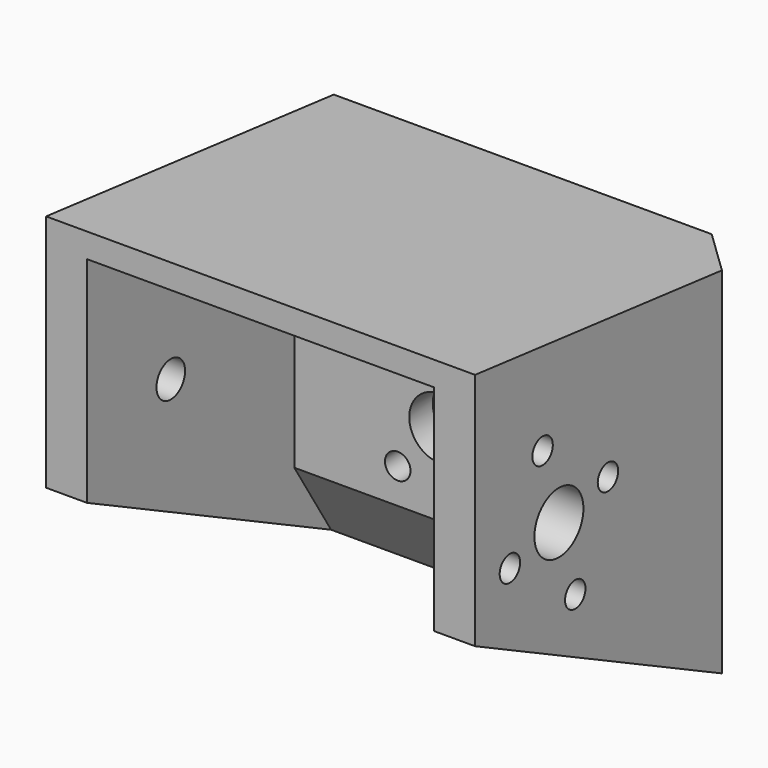
from build123d import *

# Parameters (mm, degrees)
CYLINDER067_R             = 1.75
CYLINDER067_DEPTH         = 22
CYLINDER067_PITCH_ANGLE   = 90
CYLINDER061_R             = 1.25
CYLINDER061_DEPTH         = 22
CYLINDER061_PITCH_ANGLE   = 90
CYLINDER062_R             = 1.25
CYLINDER062_DEPTH         = 22
CYLINDER062_PITCH_ANGLE   = 90
CYLINDER060_R             = 1.25
CYLINDER060_DEPTH         = 22
CYLINDER060_PITCH_ANGLE   = 90
CYLINDER059_R             = 1.25
CYLINDER059_DEPTH         = 22
CYLINDER059_PITCH_ANGLE   = 90
CYLINDER065_R             = 1.25
CYLINDER065_DEPTH         = 22
CYLINDER065_PITCH_ANGLE   = 90
CYLINDER066_R             = 1.25
CYLINDER066_DEPTH         = 22
CYLINDER066_PITCH_ANGLE   = 90
CYLINDER064_R             = 1.25
CYLINDER064_DEPTH         = 22
CYLINDER064_PITCH_ANGLE   = 90
CYLINDER063_R             = 1.25
CYLINDER063_DEPTH         = 22
CYLINDER063_PITCH_ANGLE   = 90
FUSION047_ROLL_ANGLE      = 34
FUSION047_PLACEMENT_ANGLE = -90
CYLINDER058_R             = 3
CYLINDER058_DEPTH         = 22
CYLINDER058_PITCH_ANGLE   = 90
CYLINDER057_R             = 3
CYLINDER057_DEPTH         = 13
CYLINDER057_ROLL_ANGLE    = 90
CYLINDER056_R             = 10
CYLINDER056_DEPTH         = 10
CYLINDER056_ROLL_ANGLE    = 90
PAD007_DEPTH              = 34
PAD005_DEPTH              = 42
CHAMFER104_SIZE           = 5
CHAMFER105_SIZE           = 5


with BuildPart() as cilindro011:
    # Cylinder067 → Cylinder067 (new body)
    with BuildSketch(Plane.XY):
        Circle(CYLINDER067_R)
    extrude(amount=CYLINDER067_DEPTH)


with BuildPart() as cilindro011_1:
    # Cylinder067 pitch: moved
    add(cilindro011.part.rotate(Axis((0, 0, 0), (0, 1, 0)), CYLINDER067_PITCH_ANGLE))


with BuildPart() as cilindro011_2:
    # Cylinder067 placement: moved
    add(cilindro011_1.part.moved(Location((-4.75, -32, 125.75))))


with BuildPart() as cilindro005:
    # Cylinder061 → Cylinder061 (new body)
    with BuildSketch(Plane.XY):
        Circle(CYLINDER061_R)
    extrude(amount=CYLINDER061_DEPTH)


with BuildPart() as cilindro005_1:
    # Cylinder061 pitch: moved
    add(cilindro005.part.rotate(Axis((0, 0, 0), (0, 1, 0)), CYLINDER061_PITCH_ANGLE))


with BuildPart() as cilindro005_2:
    # Cylinder061 placement: moved
    add(cilindro005_1.part.moved(Location((20.25, -38, 124.25))))


with BuildPart() as cilindro006:
    # Cylinder062 → Cylinder062 (new body)
    with BuildSketch(Plane.XY):
        Circle(CYLINDER062_R)
    extrude(amount=CYLINDER062_DEPTH)


with BuildPart() as cilindro006_1:
    # Cylinder062 pitch: moved
    add(cilindro006.part.rotate(Axis((0, 0, 0), (0, 1, 0)), CYLINDER062_PITCH_ANGLE))


with BuildPart() as cilindro006_2:
    # Cylinder062 placement: moved
    add(cilindro006_1.part.moved(Location((20.25, -26, 127.25))))


with BuildPart() as cilindro004:
    # Cylinder060 → Cylinder060 (new body)
    with BuildSketch(Plane.XY):
        Circle(CYLINDER060_R)
    extrude(amount=CYLINDER060_DEPTH)


with BuildPart() as cilindro004_1:
    # Cylinder060 pitch: moved
    add(cilindro004.part.rotate(Axis((0, 0, 0), (0, 1, 0)), CYLINDER060_PITCH_ANGLE))


with BuildPart() as cilindro004_2:
    # Cylinder060 placement: moved
    add(cilindro004_1.part.moved(Location((20.25, -30, 118.75))))


with BuildPart() as fusion046:
    # Cylinder059 → Cylinder059 (new body)
    with BuildSketch(Plane.XY):
        Circle(CYLINDER059_R)
    extrude(amount=CYLINDER059_DEPTH)


with BuildPart() as fusion046_1:
    # Cylinder059 pitch: moved
    add(fusion046.part.rotate(Axis((0, 0, 0), (0, 1, 0)), CYLINDER059_PITCH_ANGLE))


with BuildPart() as fusion046_2:
    # Cylinder059 placement: moved
    add(fusion046_1.part.moved(Location((20.25, -34, 132.75))))

    # Fusion046: union Cilindro005, Cilindro006, Cilindro004
    add(cilindro005_2.part)
    add(cilindro006_2.part)
    add(cilindro004_2.part)


with BuildPart() as cilindro009:
    # Cylinder065 → Cylinder065 (new body)
    with BuildSketch(Plane.XY):
        Circle(CYLINDER065_R)
    extrude(amount=CYLINDER065_DEPTH)


with BuildPart() as cilindro009_1:
    # Cylinder065 pitch: moved
    add(cilindro009.part.rotate(Axis((0, 0, 0), (0, 1, 0)), CYLINDER065_PITCH_ANGLE))


with BuildPart() as cilindro009_2:
    # Cylinder065 placement: moved
    add(cilindro009_1.part.moved(Location((20.25, -38, 124.25))))


with BuildPart() as cilindro010:
    # Cylinder066 → Cylinder066 (new body)
    with BuildSketch(Plane.XY):
        Circle(CYLINDER066_R)
    extrude(amount=CYLINDER066_DEPTH)


with BuildPart() as cilindro010_1:
    # Cylinder066 pitch: moved
    add(cilindro010.part.rotate(Axis((0, 0, 0), (0, 1, 0)), CYLINDER066_PITCH_ANGLE))


with BuildPart() as cilindro010_2:
    # Cylinder066 placement: moved
    add(cilindro010_1.part.moved(Location((20.25, -26, 127.25))))


with BuildPart() as cilindro008:
    # Cylinder064 → Cylinder064 (new body)
    with BuildSketch(Plane.XY):
        Circle(CYLINDER064_R)
    extrude(amount=CYLINDER064_DEPTH)


with BuildPart() as cilindro008_1:
    # Cylinder064 pitch: moved
    add(cilindro008.part.rotate(Axis((0, 0, 0), (0, 1, 0)), CYLINDER064_PITCH_ANGLE))


with BuildPart() as cilindro008_2:
    # Cylinder064 placement: moved
    add(cilindro008_1.part.moved(Location((20.25, -30, 118.75))))


with BuildPart() as fusion047:
    # Cylinder063 → Cylinder063 (new body)
    with BuildSketch(Plane.XY):
        Circle(CYLINDER063_R)
    extrude(amount=CYLINDER063_DEPTH)


with BuildPart() as fusion047_1:
    # Cylinder063 pitch: moved
    add(fusion047.part.rotate(Axis((0, 0, 0), (0, 1, 0)), CYLINDER063_PITCH_ANGLE))


with BuildPart() as fusion047_2:
    # Cylinder063 placement: moved
    add(fusion047_1.part.moved(Location((20.25, -34, 132.75))))

    # Fusion047: union Cilindro009, Cilindro010, Cilindro008
    add(cilindro009_2.part)
    add(cilindro010_2.part)
    add(cilindro008_2.part)


with BuildPart() as fusion047_3:
    # Fusion047 roll: moved
    add(fusion047_2.part.rotate(Axis((0, 0, 0), (1, 0, 0)), FUSION047_ROLL_ANGLE))


with BuildPart() as fusion047_4:
    # Fusion047 placement: moved
    add(fusion047_3.part.moved(Location((114.107998, 21, 33.646227))).rotate(Axis((114.107998, 21, 33.646227), (0, 0, 1)), FUSION047_PLACEMENT_ANGLE))


with BuildPart() as cilindro002:
    # Cylinder058 → Cylinder058 (new body)
    with BuildSketch(Plane.XY):
        Circle(CYLINDER058_R)
    extrude(amount=CYLINDER058_DEPTH)


with BuildPart() as cilindro002_1:
    # Cylinder058 pitch: moved
    add(cilindro002.part.rotate(Axis((0, 0, 0), (0, 1, 0)), CYLINDER058_PITCH_ANGLE))


with BuildPart() as cilindro002_2:
    # Cylinder058 placement: moved
    add(cilindro002_1.part.moved(Location((20.25, -32, 125.75))))


with BuildPart() as cilindro001:
    # Cylinder057 → Cylinder057 (new body)
    with BuildSketch(Plane.XY):
        Circle(CYLINDER057_R)
    extrude(amount=CYLINDER057_DEPTH)


with BuildPart() as cilindro001_1:
    # Cylinder057 roll: moved
    add(cilindro001.part.rotate(Axis((0, 0, 0), (1, 0, 0)), CYLINDER057_ROLL_ANGLE))


with BuildPart() as cilindro001_2:
    # Cylinder057 placement: moved
    add(cilindro001_1.part.moved(Location((17.25, -6, 120))))


with BuildPart() as cilindro:
    # Cylinder056 → Cylinder056 (new body)
    with BuildSketch(Plane.XY):
        Circle(CYLINDER056_R)
    extrude(amount=CYLINDER056_DEPTH)


with BuildPart() as cilindro_1:
    # Cylinder056 roll: moved
    add(cilindro.part.rotate(Axis((0, 0, 0), (1, 0, 0)), CYLINDER056_ROLL_ANGLE))


with BuildPart() as cilindro_2:
    # Cylinder056 placement: moved
    add(cilindro_1.part.moved(Location((17.25, -4, 120))))


with BuildPart() as pad007:
    # Sketch012 → Pad007 (new body)
    with BuildSketch(Plane(origin=(3, -12, -1), x_dir=(0, 1, 0), z_dir=(1, 0, 0))):
        Polygon((-4.882067, 101.940956), (-4.882067, 138.559921), (-40.571098, 142.373672), (-40.571098, 120.688431), align=None)
    extrude(amount=PAD007_DEPTH)


with BuildPart() as obj1:
    # Sketch010 → Pad005 (new body)
    with BuildSketch(Plane.YZ.offset(-1)):
        Polygon((-7.053021, 102.221077), (-7.053021, 138.840042), (-42.260719, 142.653793), (-42.260719, 119.265137), align=None)
    extrude(amount=PAD005_DEPTH)

    # Cut085: cut Pad007
    add(pad007.part, mode=Mode.SUBTRACT)

    # Cut086: cut Cilindro
    add(cilindro_2.part, mode=Mode.SUBTRACT)

    # Cut087: cut Cilindro001
    add(cilindro001_2.part, mode=Mode.SUBTRACT)

    # Chamfer104
    chamfer104_edges = [obj1.edges().sort_by_distance(p)[0] for p in [
        (20, -16.882067, 106.979322),
    ]]
    chamfer(chamfer104_edges, length=CHAMFER104_SIZE)

    # Cut088: cut Cilindro002
    add(cilindro002_2.part, mode=Mode.SUBTRACT)

    # Cut089: cut Fusion047
    add(fusion047_4.part, mode=Mode.SUBTRACT)

    # Cut090: cut Fusion046
    add(fusion046_2.part, mode=Mode.SUBTRACT)

    # Cut091: cut Cilindro011
    add(cilindro011_2.part, mode=Mode.SUBTRACT)

    # Chamfer105
    chamfer105_edges = [obj1.edges().sort_by_distance(p)[0] for p in [
        (41, -7.053021, 120.530559),
    ]]
    chamfer(chamfer105_edges, length=CHAMFER105_SIZE)


solid = obj1.part
